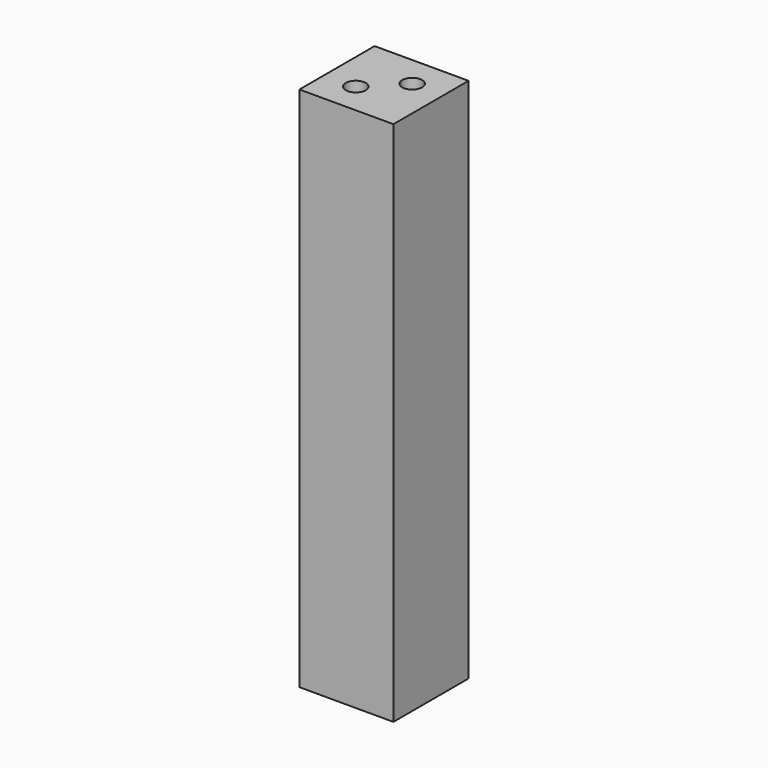
from build123d import *

# Parameters (mm, degrees)
F0_W     = 19.05
F0_H     = 19.05
F1_DEPTH = 106.68
F3_D     = 4.0386
F3_DEPTH = 19.05
F3_TIP   = 1.213317848
F5_D     = 6.9088
F5_DEPTH = 24.3416666667
F5_TIP   = 2.0756129224


with BuildPart() as f1:
    # F0 (on Top) → F1 (new body)
    with BuildSketch(Plane.XY):
        with Locations((9.525, 9.525)):
            Rectangle(F0_W, F0_H)
    extrude(amount=F1_DEPTH)

    # F3
    with Locations(Plane.XY.offset(106.68)):
        with Locations((12.7, 12.7), (6.35, 6.35)):
            Hole(F3_D / 2, depth=F3_DEPTH)
            with Locations((0, 0, -(F3_DEPTH + F3_TIP / 2))):  # 118° drill point
                Cone(0, F3_D / 2, F3_TIP, mode=Mode.SUBTRACT)

    # F5
    with Locations(Plane(origin=(0, 0, 0), x_dir=(1, 0, 0), z_dir=(0, 0, -1))):
        with Locations((9.525, -9.525)):
            Hole(F5_D / 2, depth=F5_DEPTH)
            with Locations((0, 0, -(F5_DEPTH + F5_TIP / 2))):  # 118° drill point
                Cone(0, F5_D / 2, F5_TIP, mode=Mode.SUBTRACT)


solid = f1.part
